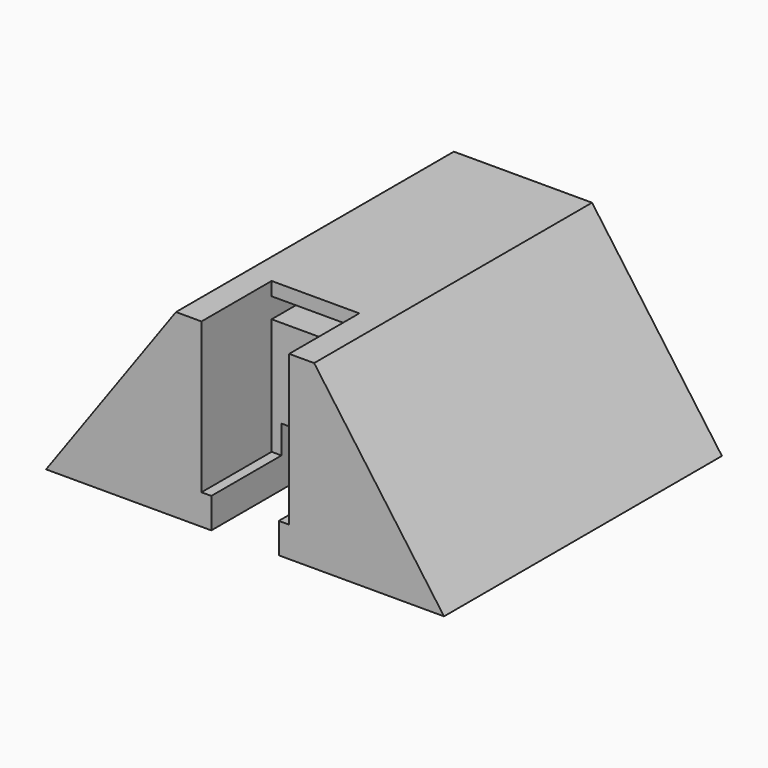
from build123d import *

# Parameters (mm, degrees)
F1_DEPTH = 51.5
F2_W     = 10
F2_H     = 8.67
F3_DEPTH = 51.501
F5_DEPTH = 13
F6_W     = 13
F6_H     = 3
F7_DEPTH = 5


with BuildPart() as f1:
    # F0 (on Front) → F1 (new body)
    with BuildSketch(Plane.XZ):
        Polygon((-9.96814, 13.299286), (-29.225, -13.49947), (29.775, -13.49947), (10.51814, 13.299286), align=None)
    extrude(amount=F1_DEPTH)

    # F2 (on face) → F3 (cut, through all)
    with BuildSketch(Plane.XZ.offset(51.5)):
        with Locations((0.275, -9.16447)):
            Rectangle(F2_W, F2_H)
    extrude(amount=-F3_DEPTH, mode=Mode.SUBTRACT)

    # F4 (on face) → F5 (cut)
    with BuildSketch(Plane.XZ.offset(51.5)):
        Polygon((-6.187351, -8.99947), (-4.725, -8.99947), (-4.725, -4.82947), (5.275, -4.82947), (5.275, -8.99947), (6.812649, -8.99947), (6.812649, 13.299286), (-6.187351, 13.299286), align=None)
    extrude(amount=-F5_DEPTH, mode=Mode.SUBTRACT)

    # F6 (on face) → F7 (cut)
    with BuildSketch(Plane.XZ.offset(38.5)):
        with Locations((0.312649, 9.799286)):
            Rectangle(F6_W, F6_H)
        with Locations((0.312649, 9.799286)):
            Rectangle(F6_W, F6_H)
    extrude(amount=-F7_DEPTH, mode=Mode.SUBTRACT)


solid = f1.part
